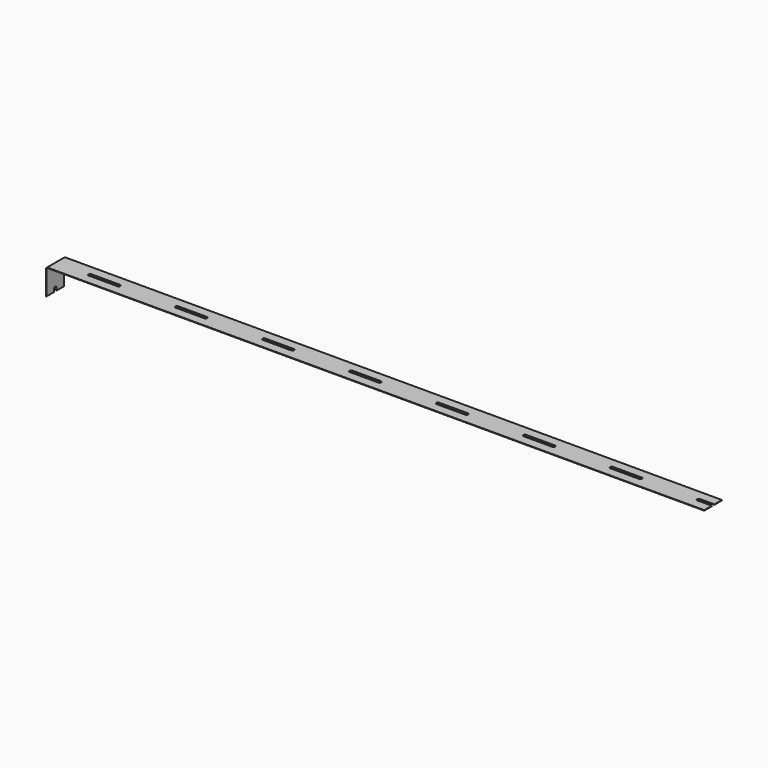
from build123d import *

# Parameters (mm, degrees)
F1_DEPTH = 0.15
F2_DEPTH = 1.9
F3_W     = 0.15
F3_H     = 7
F4_DEPTH = 8
F6_DEPTH = 25
F7_R     = 0.5


with BuildPart() as f1:
    # F0 (on Top) → F1 (new body)
    with BuildSketch(Plane.XY):
        with BuildLine():
            Line((96.425, -0.5), (96.425, -3.5))
            Line((96.425, -3.5), (99.425, -3.5))
            Line((99.425, -3.5), (110.2, -3.5))
            Line((110.2, -3.5), (123.975, -3.5))
            Line((123.975, -3.5), (123.975, -0.5))
            Line((123.975, -0.5), (119.375, -0.5))
            ThreePointArc((119.375, -0.5), (119.0921572875, -0.3828427125), (118.975, -0.1))
            Line((118.975, -0.1), (118.975, 0.1))
            ThreePointArc((118.975, 0.1), (119.0921572875, 0.3828427125), (119.375, 0.5))
            Line((119.375, 0.5), (123.975, 0.5))
            Line((123.975, 0.5), (123.975, 3.5))
            Line((123.975, 3.5), (110.2, 3.5))
            Line((110.2, 3.5), (99.425, 3.5))
            Line((99.425, 3.5), (96.425, 3.5))
            Line((96.425, 3.5), (96.425, 0.5))
            Line((96.425, 0.5), (101.025, 0.5))
            ThreePointArc((101.025, 0.5), (101.3078427125, 0.3828427125), (101.425, 0.1))
            Line((101.425, 0.1), (101.425, -0.1))
            ThreePointArc((101.425, -0.1), (101.3078427125, -0.3828427125), (101.025, -0.5))
            Line((101.025, -0.5), (96.425, -0.5))
        make_face()
        with BuildLine():
            Line((13.775, -0.5), (13.775, -3.5))
            Line((13.775, -3.5), (27.55, -3.5))
            Line((27.55, -3.5), (41.325, -3.5))
            Line((41.325, -3.5), (41.325, -0.5))
            Line((41.325, -0.5), (36.725, -0.5))
            ThreePointArc((36.725, -0.5), (36.4421572875, -0.3828427125), (36.325, -0.1))
            Line((36.325, -0.1), (36.325, 0.1))
            ThreePointArc((36.325, 0.1), (36.4421572875, 0.3828427125), (36.725, 0.5))
            Line((36.725, 0.5), (41.325, 0.5))
            Line((41.325, 0.5), (41.325, 3.5))
            Line((41.325, 3.5), (27.55, 3.5))
            Line((27.55, 3.5), (13.775, 3.5))
            Line((13.775, 3.5), (13.775, 0.5))
            Line((13.775, 0.5), (18.375, 0.5))
            ThreePointArc((18.375, 0.5), (18.6578427125, 0.3828427125), (18.775, 0.1))
            Line((18.775, 0.1), (18.775, -0.1))
            ThreePointArc((18.775, -0.1), (18.6578427125, -0.3828427125), (18.375, -0.5))
            Line((18.375, -0.5), (13.775, -0.5))
        make_face()
        with BuildLine():
            Line((41.325, -0.5), (41.325, -3.5))
            Line((41.325, -3.5), (55.1, -3.5))
            Line((55.1, -3.5), (68.875, -3.5))
            Line((68.875, -3.5), (68.875, -0.5))
            Line((68.875, -0.5), (64.275, -0.5))
            ThreePointArc((64.275, -0.5), (63.9921572875, -0.3828427125), (63.875, -0.1))
            Line((63.875, -0.1), (63.875, 0.1))
            ThreePointArc((63.875, 0.1), (63.9921572875, 0.3828427125), (64.275, 0.5))
            Line((64.275, 0.5), (68.875, 0.5))
            Line((68.875, 0.5), (68.875, 3.5))
            Line((68.875, 3.5), (55.1, 3.5))
            Line((55.1, 3.5), (41.325, 3.5))
            Line((41.325, 3.5), (41.325, 0.5))
            Line((41.325, 0.5), (45.925, 0.5))
            ThreePointArc((45.925, 0.5), (46.2078427125, 0.3828427125), (46.325, 0.1))
            Line((46.325, 0.1), (46.325, -0.1))
            ThreePointArc((46.325, -0.1), (46.2078427125, -0.3828427125), (45.925, -0.5))
            Line((45.925, -0.5), (41.325, -0.5))
        make_face()
        with BuildLine():
            Line((68.875, -0.5), (68.875, -3.5))
            Line((68.875, -3.5), (82.65, -3.5))
            Line((82.65, -3.5), (96.425, -3.5))
            Line((96.425, -3.5), (96.425, -0.5))
            Line((96.425, -0.5), (91.825, -0.5))
            ThreePointArc((91.825, -0.5), (91.5421572875, -0.3828427125), (91.425, -0.1))
            Line((91.425, -0.1), (91.425, 0.1))
            ThreePointArc((91.425, 0.1), (91.5421572875, 0.3828427125), (91.825, 0.5))
            Line((91.825, 0.5), (96.425, 0.5))
            Line((96.425, 0.5), (96.425, 3.5))
            Line((96.425, 3.5), (82.65, 3.5))
            Line((82.65, 3.5), (68.875, 3.5))
            Line((68.875, 3.5), (68.875, 0.5))
            Line((68.875, 0.5), (73.475, 0.5))
            ThreePointArc((73.475, 0.5), (73.7578427125, 0.3828427125), (73.875, 0.1))
            Line((73.875, 0.1), (73.875, -0.1))
            ThreePointArc((73.875, -0.1), (73.7578427125, -0.3828427125), (73.475, -0.5))
            Line((73.475, -0.5), (68.875, -0.5))
        make_face()
        with BuildLine():
            Line((0, 3.5), (0, -3.5))
            Line((0, -3.5), (13.775, -3.5))
            Line((13.775, -3.5), (13.775, -0.5))
            Line((13.775, -0.5), (9.175, -0.5))
            ThreePointArc((9.175, -0.5), (8.8921572875, -0.3828427125), (8.775, -0.1))
            Line((8.775, -0.1), (8.775, 0.1))
            ThreePointArc((8.775, 0.1), (8.8921572875, 0.3828427125), (9.175, 0.5))
            Line((9.175, 0.5), (13.775, 0.5))
            Line((13.775, 0.5), (13.775, 3.5))
            Line((13.775, 3.5), (0, 3.5))
        make_face()
        with BuildLine():
            Line((96.425, -0.5), (96.425, -3.5))
            Line((96.425, -3.5), (99.425, -3.5))
            Line((99.425, -3.5), (110.2, -3.5))
            Line((110.2, -3.5), (123.975, -3.5))
            Line((123.975, -3.5), (123.975, -0.5))
            Line((123.975, -0.5), (119.375, -0.5))
            ThreePointArc((119.375, -0.5), (119.0921572875, -0.3828427125), (118.975, -0.1))
            Line((118.975, -0.1), (118.975, 0.1))
            ThreePointArc((118.975, 0.1), (119.0921572875, 0.3828427125), (119.375, 0.5))
            Line((119.375, 0.5), (123.975, 0.5))
            Line((123.975, 0.5), (123.975, 3.5))
            Line((123.975, 3.5), (110.2, 3.5))
            Line((110.2, 3.5), (99.425, 3.5))
            Line((99.425, 3.5), (96.425, 3.5))
            Line((96.425, 3.5), (96.425, 0.5))
            Line((96.425, 0.5), (101.025, 0.5))
            ThreePointArc((101.025, 0.5), (101.3078427125, 0.3828427125), (101.425, 0.1))
            Line((101.425, 0.1), (101.425, -0.1))
            ThreePointArc((101.425, -0.1), (101.3078427125, -0.3828427125), (101.025, -0.5))
            Line((101.025, -0.5), (96.425, -0.5))
        make_face()
        with BuildLine():
            Line((96.425, -0.5), (96.425, -3.5))
            Line((96.425, -3.5), (99.425, -3.5))
            Line((99.425, -3.5), (110.2, -3.5))
            Line((110.2, -3.5), (123.975, -3.5))
            Line((123.975, -3.5), (123.975, -0.5))
            Line((123.975, -0.5), (119.375, -0.5))
            ThreePointArc((119.375, -0.5), (119.0921572875, -0.3828427125), (118.975, -0.1))
            Line((118.975, -0.1), (118.975, 0.1))
            ThreePointArc((118.975, 0.1), (119.0921572875, 0.3828427125), (119.375, 0.5))
            Line((119.375, 0.5), (123.975, 0.5))
            Line((123.975, 0.5), (123.975, 3.5))
            Line((123.975, 3.5), (110.2, 3.5))
            Line((110.2, 3.5), (99.425, 3.5))
            Line((99.425, 3.5), (96.425, 3.5))
            Line((96.425, 3.5), (96.425, 0.5))
            Line((96.425, 0.5), (101.025, 0.5))
            ThreePointArc((101.025, 0.5), (101.3078427125, 0.3828427125), (101.425, 0.1))
            Line((101.425, 0.1), (101.425, -0.1))
            ThreePointArc((101.425, -0.1), (101.3078427125, -0.3828427125), (101.025, -0.5))
            Line((101.025, -0.5), (96.425, -0.5))
        make_face()
        with BuildLine():
            Line((96.425, -0.5), (96.425, -3.5))
            Line((96.425, -3.5), (99.425, -3.5))
            Line((99.425, -3.5), (110.2, -3.5))
            Line((110.2, -3.5), (123.975, -3.5))
            Line((123.975, -3.5), (123.975, -0.5))
            Line((123.975, -0.5), (119.375, -0.5))
            ThreePointArc((119.375, -0.5), (119.0921572875, -0.3828427125), (118.975, -0.1))
            Line((118.975, -0.1), (118.975, 0.1))
            ThreePointArc((118.975, 0.1), (119.0921572875, 0.3828427125), (119.375, 0.5))
            Line((119.375, 0.5), (123.975, 0.5))
            Line((123.975, 0.5), (123.975, 3.5))
            Line((123.975, 3.5), (110.2, 3.5))
            Line((110.2, 3.5), (99.425, 3.5))
            Line((99.425, 3.5), (96.425, 3.5))
            Line((96.425, 3.5), (96.425, 0.5))
            Line((96.425, 0.5), (101.025, 0.5))
            ThreePointArc((101.025, 0.5), (101.3078427125, 0.3828427125), (101.425, 0.1))
            Line((101.425, 0.1), (101.425, -0.1))
            ThreePointArc((101.425, -0.1), (101.3078427125, -0.3828427125), (101.025, -0.5))
            Line((101.025, -0.5), (96.425, -0.5))
        make_face()
        with BuildLine():
            Line((123.975, -0.5), (123.975, -3.5))
            Line((123.975, -3.5), (137.75, -3.5))
            Line((137.75, -3.5), (151.525, -3.5))
            Line((151.525, -3.5), (151.525, -0.5))
            Line((151.525, -0.5), (146.925, -0.5))
            ThreePointArc((146.925, -0.5), (146.6421572875, -0.3828427125), (146.525, -0.1))
            Line((146.525, -0.1), (146.525, 0.1))
            ThreePointArc((146.525, 0.1), (146.6421572875, 0.3828427125), (146.925, 0.5))
            Line((146.925, 0.5), (151.525, 0.5))
            Line((151.525, 0.5), (151.525, 3.5))
            Line((151.525, 3.5), (137.75, 3.5))
            Line((137.75, 3.5), (123.975, 3.5))
            Line((123.975, 3.5), (123.975, 0.5))
            Line((123.975, 0.5), (128.575, 0.5))
            ThreePointArc((128.575, 0.5), (128.8578427125, 0.3828427125), (128.975, 0.1))
            Line((128.975, 0.1), (128.975, -0.1))
            ThreePointArc((128.975, -0.1), (128.8578427125, -0.3828427125), (128.575, -0.5))
            Line((128.575, -0.5), (123.975, -0.5))
        make_face()
        with BuildLine():
            Line((151.525, -0.5), (151.525, -3.5))
            Line((151.525, -3.5), (165.3, -3.5))
            Line((165.3, -3.5), (179.075, -3.5))
            Line((179.075, -3.5), (179.075, -0.5))
            Line((179.075, -0.5), (174.475, -0.5))
            ThreePointArc((174.475, -0.5), (174.1921572875, -0.3828427125), (174.075, -0.1))
            Line((174.075, -0.1), (174.075, 0.1))
            ThreePointArc((174.075, 0.1), (174.1921572875, 0.3828427125), (174.475, 0.5))
            Line((174.475, 0.5), (179.075, 0.5))
            Line((179.075, 0.5), (179.075, 3.5))
            Line((179.075, 3.5), (165.3, 3.5))
            Line((165.3, 3.5), (151.525, 3.5))
            Line((151.525, 3.5), (151.525, 0.5))
            Line((151.525, 0.5), (156.125, 0.5))
            ThreePointArc((156.125, 0.5), (156.4078427125, 0.3828427125), (156.525, 0.1))
            Line((156.525, 0.1), (156.525, -0.1))
            ThreePointArc((156.525, -0.1), (156.4078427125, -0.3828427125), (156.125, -0.5))
            Line((156.125, -0.5), (151.525, -0.5))
        make_face()
        with BuildLine():
            Line((179.075, -0.5), (179.075, -3.5))
            Line((179.075, -3.5), (192.85, -3.5))
            Line((192.85, -3.5), (206.625, -3.5))
            Line((206.625, -3.5), (206.625, -0.5))
            Line((206.625, -0.5), (202.025, -0.5))
            ThreePointArc((202.025, -0.5), (201.7421572875, -0.3828427125), (201.625, -0.1))
            Line((201.625, -0.1), (201.625, 0.1))
            ThreePointArc((201.625, 0.1), (201.7421572875, 0.3828427125), (202.025, 0.5))
            Line((202.025, 0.5), (206.625, 0.5))
            Line((206.625, 0.5), (206.625, 3.5))
            Line((206.625, 3.5), (192.85, 3.5))
            Line((192.85, 3.5), (179.075, 3.5))
            Line((179.075, 3.5), (179.075, 0.5))
            Line((179.075, 0.5), (183.675, 0.5))
            ThreePointArc((183.675, 0.5), (183.9578427125, 0.3828427125), (184.075, 0.1))
            Line((184.075, 0.1), (184.075, -0.1))
            ThreePointArc((184.075, -0.1), (183.9578427125, -0.3828427125), (183.675, -0.5))
            Line((183.675, -0.5), (179.075, -0.5))
        make_face()
    extrude(amount=F1_DEPTH)

    # F2 (add): a face of the model
    f2_faces = [f1.faces().sort_by_distance(p)[0] for p in [
        (0, 0, 0.075),
    ]]
    extrude(f2_faces, amount=F2_DEPTH)

    # F3 (on face) → F4 (join)
    with BuildSketch(Plane(origin=(0, 0, 0), x_dir=(1, 0, 0), z_dir=(0, 0, -1))):
        with Locations((-1.825, 0)):
            Rectangle(F3_W, F3_H)
    extrude(amount=F4_DEPTH)

    # F5 (on face) → F6 (cut)
    with BuildSketch(Plane(origin=(-1.9, 0, 0), x_dir=(0, -1, 0), z_dir=(-1, 0, 0))):
        with BuildLine():
            ThreePointArc((0.5, -7.1), (0.3828427125, -6.8171572875), (0.1, -6.7))
            Line((0.1, -6.7), (-0.1, -6.7))
            ThreePointArc((-0.1, -6.7), (-0.3828427125, -6.8171572875), (-0.5, -7.1))
            Line((-0.5, -7.1), (-0.5, -8))
            Line((-0.5, -8), (0.5, -8))
            Line((0.5, -8), (0.5, -7.1))
        make_face()
    extrude(amount=-F6_DEPTH, mode=Mode.SUBTRACT)

    # F7
    f7_edges = [f1.edges().sort_by_distance(p)[0] for p in [
        (-1.9, 0, 0.15),
        (-1.75, 0, 0),
    ]]
    fillet(f7_edges, radius=F7_R)


solid = f1.part
